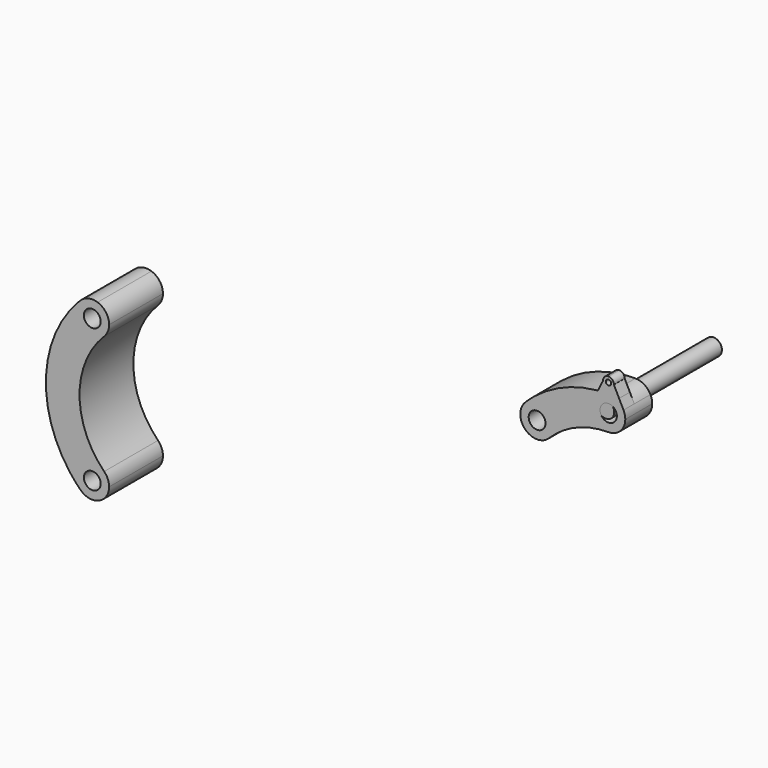
from build123d import *

# Parameters (mm, degrees)
F0_R     = 0.79375
F2_DEPTH = 12.7
F1_R     = 0.79375
F3_DEPTH = 3.175
F1_R_2   = 0.254
F4_DEPTH = 1.27
F5_R     = 0.79375
F6_DEPTH = 6.35


with BuildPart() as f2:
    # F0 (on Front) → F2 (new body)
    with BuildSketch(Plane.XZ):
        with Locations((0, 9.525)):
            Circle(F0_R)
    extrude(amount=-F2_DEPTH)


with BuildPart() as f3:
    # F1 (on Front) → F3 (new body)
    with BuildSketch(Plane.XZ):
        with BuildLine():
            ThreePointArc((-1.1694463436, 9.9839179202), (-1.1011480712, 8.4385785178), (0.2497026876, 7.6849600799))
            ThreePointArc((0.2497026876, 7.6849600799), (1.372234707, 8.1499280624), (1.8372026942, 9.2724600799))
            ThreePointArc((1.8372026942, 9.2724600799), (1.7945417388, 9.638012506), (1.668851732, 9.9839179202))
            ThreePointArc((1.668851732, 9.9839179202), (1.0835842591, 10.6233108435), (0.2497026942, 10.8599600799))
            ThreePointArc((0.2497026942, 10.8599600799), (-0.5841788707, 10.6233108435), (-1.1694463436, 9.9839179202))
        make_face()
        with Locations((0.2497026942, 9.2724600799)):
            Circle(F1_R, mode=Mode.SUBTRACT)
        with BuildLine():
            ThreePointArc((-5.3629573815, 5.3601201555), (-2.7878470533, 7.0807538679), (0.2497026876, 7.6849600799))
            ThreePointArc((0.2497026876, 7.6849600799), (-1.1011480712, 8.4385785178), (-1.1694463436, 9.9839179202))
            Line((-1.1694463436, 9.9839179202), (-0.7529874614, 10.8146308431))
            ThreePointArc((-0.7529874614, 10.8146308431), (-0.8147178245, 10.8088643854), (-0.8764150546, 10.8027536113))
            Line((-0.8764150546, 10.8027536113), (-6.6973281316, 8.420776571))
            ThreePointArc((-6.6973281316, 8.420776571), (-6.7824856126, 8.3518766126), (-6.8669597926, 8.2821405835))
            Line((-6.8669597926, 8.2821405835), (-5.9850761519, 7.9892187422))
            ThreePointArc((-5.9850761519, 7.9892187422), (-5.1981350794, 7.4115628833), (-4.8979893966, 6.4826521707))
            ThreePointArc((-4.8979893966, 6.4826521707), (-5.0188306388, 5.8751422218), (-5.3629573815, 5.3601201555))
        make_face()
        with BuildLine():
            Line((-0.7529874614, 10.8146308431), (-1.1694463436, 9.9839179202))
            ThreePointArc((-1.1694463436, 9.9839179202), (-0.5841788707, 10.6233108435), (0.2497026942, 10.8599600799))
            ThreePointArc((0.2497026942, 10.8599600799), (-0.2521544289, 10.8486219865), (-0.7529874614, 10.8146308431))
        make_face()
        with BuildLine():
            ThreePointArc((-7.6080214168, 7.6051841808), (-6.8510418262, 8.0274912145), (-5.9850761519, 7.9892187422))
            Line((-5.9850761519, 7.9892187422), (-6.8669597926, 8.2821405835))
            ThreePointArc((-6.8669597926, 8.2821405835), (-7.2451375968, 7.9520335156), (-7.6080214168, 7.6051841808))
        make_face()
        with BuildLine():
            ThreePointArc((-7.922330376, 5.8076379116), (-6.7589223258, 4.9188776718), (-5.3629573815, 5.3601201555))
            ThreePointArc((-5.3629573815, 5.3601201555), (-5.0188306388, 5.8751422218), (-4.8979893966, 6.4826521707))
            ThreePointArc((-4.8979893966, 6.4826521707), (-5.1981350794, 7.4115628833), (-5.9850761519, 7.9892187422))
            ThreePointArc((-5.9850761519, 7.9892187422), (-6.8510418262, 8.0274912145), (-7.6080214168, 7.6051841808))
            ThreePointArc((-7.6080214168, 7.6051841808), (-7.7845912294, 7.3950614418), (-7.922330376, 7.1576664298))
            Line((-7.922330376, 7.1576664298), (-7.922330376, 5.8076379116))
        make_face()
        with Locations((-6.4854893966, 6.4826521707)):
            Circle(F1_R, mode=Mode.SUBTRACT)
        with BuildLine():
            ThreePointArc((-7.9920559682, 5.9822389259), (-7.9597802028, 5.8939053076), (-7.922330376, 5.8076379116))
            Line((-7.922330376, 5.8076379116), (-7.922330376, 7.1576664298))
            ThreePointArc((-7.922330376, 7.1576664298), (-8.0702037106, 6.5766563892), (-7.9920559682, 5.9822389259))
        make_face()
        with BuildLine():
            Line((-6.6973281316, 8.420776571), (-0.8764150546, 10.8027536113))
            ThreePointArc((-0.8764150546, 10.8027536113), (-3.9589058207, 10.0321706066), (-6.6973281316, 8.420776571))
        make_face()
    extrude(amount=-F3_DEPTH)

    # F1 (on Front) → F4 (join)
    with BuildSketch(Plane.XZ):
        with BuildLine():
            ThreePointArc((-0.7529874614, 10.8146308431), (-0.2521544289, 10.8486219865), (0.2497026942, 10.8599600799))
            ThreePointArc((0.2497026942, 10.8599600799), (0.7515598172, 10.8486219865), (1.2523928497, 10.8146308431))
            Line((1.2523928497, 10.8146308431), (0.7575870828, 11.8016227465))
            ThreePointArc((0.7575870828, 11.8016227465), (0.2497026942, 11.3044600799), (-0.2581816944, 11.8016227465))
            Line((-0.2581816944, 11.8016227465), (-0.7286224611, 10.8632318489))
            Line((-0.7286224611, 10.8632318489), (-0.7529874614, 10.8146308431))
        make_face()
        with BuildLine():
            ThreePointArc((-0.2581816944, 11.8016227465), (0.2497026942, 11.3044600799), (0.7575870828, 11.8016227465))
            ThreePointArc((0.7575870828, 11.8016227465), (0.7576737905, 11.8070411049), (0.7577026942, 11.8124600799))
            ThreePointArc((0.7577026942, 11.8124600799), (0.608912939, 12.1716703247), (0.2497026942, 12.3204600799))
            Line((0.2497026942, 12.3204600799), (-0.1065487401, 12.1746049619))
            ThreePointArc((-0.1065487401, 12.1746049619), (-0.2208943876, 12.0037775821), (-0.2581816944, 11.8016227465))
        make_face()
        with Locations((0.2497026942, 11.8124600799)):
            Circle(F1_R_2, mode=Mode.SUBTRACT)
        with BuildLine():
            ThreePointArc((1.2523928497, 10.8146308431), (0.7515598172, 10.8486219865), (0.2497026942, 10.8599600799))
            ThreePointArc((0.2497026942, 10.8599600799), (1.0835842591, 10.6233108435), (1.668851732, 9.9839179202))
            Line((1.668851732, 9.9839179202), (1.2523928497, 10.8146308431))
        make_face()
        with BuildLine():
            ThreePointArc((0.2497026942, 12.3204600799), (0.0572262022, 12.2825843188), (-0.1065487401, 12.1746049619))
            Line((-0.1065487401, 12.1746049619), (0.2497026942, 12.3204600799))
        make_face()
    extrude(amount=-F4_DEPTH)


with BuildPart() as f6:
    # F5 (on Front) → F6 (new body)
    with BuildSketch(Plane.XZ):
        with BuildLine():
            ThreePointArc((-44.8127825507, 4.8496123106), (-43.6493745005, 3.9608520708), (-42.2534095562, 4.4020945545))
            ThreePointArc((-42.2534095562, 4.4020945545), (-41.9092828135, 4.9171166208), (-41.7884415713, 5.5246265697))
            ThreePointArc((-41.7884415713, 5.5246265697), (-42.0885872541, 6.4535372823), (-42.8755283266, 7.0311931412))
            ThreePointArc((-42.8755283266, 7.0311931412), (-43.7414940065, 7.0694656121), (-44.4984735996, 6.6471585717))
            ThreePointArc((-44.4984735996, 6.6471585717), (-44.6750434074, 6.4370358361), (-44.8127825507, 6.1996408288))
            Line((-44.8127825507, 6.1996408288), (-44.8127825507, 4.8496123106))
        make_face()
        with Locations((-43.3759415713, 5.5246265697)):
            Circle(F5_R, mode=Mode.SUBTRACT)
        with BuildLine():
            ThreePointArc((-44.8825081429, 5.0242133249), (-44.8502323775, 4.9358797066), (-44.8127825507, 4.8496123106))
            Line((-44.8127825507, 4.8496123106), (-44.8127825507, 6.1996408288))
            ThreePointArc((-44.8127825507, 6.1996408288), (-44.9606558853, 5.6186307882), (-44.8825081429, 5.0242133249))
        make_face()
        with BuildLine():
            Line((-45.1754299842, 5.9060969657), (-44.8825081429, 5.0242133249))
            ThreePointArc((-44.8825081429, 5.0242133249), (-44.9606558853, 5.6186307882), (-44.8127825507, 6.1996408288))
            Line((-44.8127825507, 6.1996408288), (-44.8127825507, 6.3197420257))
            ThreePointArc((-44.8127825507, 6.3197420257), (-44.9966662566, 6.1151638679), (-45.1754299842, 5.9060969657))
        make_face()
        with BuildLine():
            Line((-44.8127825507, -7.2707433528), (-44.8127825507, 4.8496123106))
            ThreePointArc((-44.8127825507, 4.8496123106), (-44.8502323775, 4.9358797066), (-44.8825081429, 5.0242133249))
            Line((-44.8825081429, 5.0242133249), (-45.1754299842, 5.9060969657))
            ThreePointArc((-45.1754299842, 5.9060969657), (-45.3698726123, 5.6662117473), (-45.5575749166, 5.4210165218))
            Line((-45.5575749166, 5.4210165218), (-45.5349894408, -7.8724084927))
            ThreePointArc((-45.5349894408, -7.8724084927), (-45.3581764135, -8.1021635882), (-45.1754299842, -8.3272280079))
            Line((-45.1754299842, -8.3272280079), (-44.8825081429, -7.4453443672))
            ThreePointArc((-44.8825081429, -7.4453443672), (-44.8502323775, -7.3570107489), (-44.8127825507, -7.2707433528))
        make_face()
        with BuildLine():
            Line((-45.5349894408, -7.8724084927), (-45.5575749166, 5.4210165218))
            ThreePointArc((-45.5575749166, 5.4210165218), (-47.753233442, -1.2294455868), (-45.5349894408, -7.8724084927))
        make_face()
        with BuildLine():
            ThreePointArc((-42.2534095562, -6.8232255968), (-44.5782494805, -1.2105655211), (-42.2534095562, 4.4020945545))
            ThreePointArc((-42.2534095562, 4.4020945545), (-43.6493745005, 3.9608520708), (-44.8127825507, 4.8496123106))
            Line((-44.8127825507, 4.8496123106), (-44.8127825507, -7.2707433528))
            ThreePointArc((-44.8127825507, -7.2707433528), (-43.6493745005, -6.3819831131), (-42.2534095562, -6.8232255968))
        make_face()
        with BuildLine():
            Line((-44.8127825507, 6.3197420257), (-44.8127825507, 6.1996408288))
            ThreePointArc((-44.8127825507, 6.1996408288), (-44.6750434074, 6.4370358361), (-44.4984735996, 6.6471585717))
            ThreePointArc((-44.4984735996, 6.6471585717), (-44.6572998162, 6.4850551143), (-44.8127825507, 6.3197420257))
        make_face()
        with BuildLine():
            ThreePointArc((-41.7884415713, -7.9457576119), (-41.9092828135, -7.3382476631), (-42.2534095562, -6.8232255968))
            ThreePointArc((-42.2534095562, -6.8232255968), (-43.6493745005, -6.3819831131), (-44.8127825507, -7.2707433528))
            Line((-44.8127825507, -7.2707433528), (-44.8127825507, -8.620771871))
            ThreePointArc((-44.8127825507, -8.620771871), (-44.6750434095, -8.8581668754), (-44.4984736046, -9.0682896089))
            ThreePointArc((-44.4984736046, -9.0682896089), (-43.7414940099, -9.4905966536), (-42.8755283266, -9.4523241835))
            ThreePointArc((-42.8755283266, -9.4523241835), (-42.0885872541, -8.8746683245), (-41.7884415713, -7.9457576119))
        make_face()
        with Locations((-43.3759415713, -7.9457576119)):
            Circle(F5_R, mode=Mode.SUBTRACT)
        with BuildLine():
            Line((-44.8127825507, -8.620771871), (-44.8127825507, -7.2707433528))
            ThreePointArc((-44.8127825507, -7.2707433528), (-44.8502323775, -7.3570107489), (-44.8825081429, -7.4453443672))
            ThreePointArc((-44.8825081429, -7.4453443672), (-44.9606558853, -8.0397618305), (-44.8127825507, -8.620771871))
        make_face()
        with BuildLine():
            ThreePointArc((-44.8127825507, -8.620771871), (-44.9606558853, -8.0397618305), (-44.8825081429, -7.4453443672))
            Line((-44.8825081429, -7.4453443672), (-45.1754299842, -8.3272280079))
            ThreePointArc((-45.1754299842, -8.3272280079), (-44.9966662566, -8.5362949102), (-44.8127825507, -8.740873068))
            Line((-44.8127825507, -8.740873068), (-44.8127825507, -8.620771871))
        make_face()
        with BuildLine():
            ThreePointArc((-44.4984736046, -9.0682896089), (-44.6750434095, -8.8581668754), (-44.8127825507, -8.620771871))
            Line((-44.8127825507, -8.620771871), (-44.8127825507, -8.740873068))
            ThreePointArc((-44.8127825507, -8.740873068), (-44.6572998187, -8.906186154), (-44.4984736046, -9.0682896089))
        make_face()
    extrude(amount=F6_DEPTH)


solid = Compound([f2.part, f3.part, f6.part])
